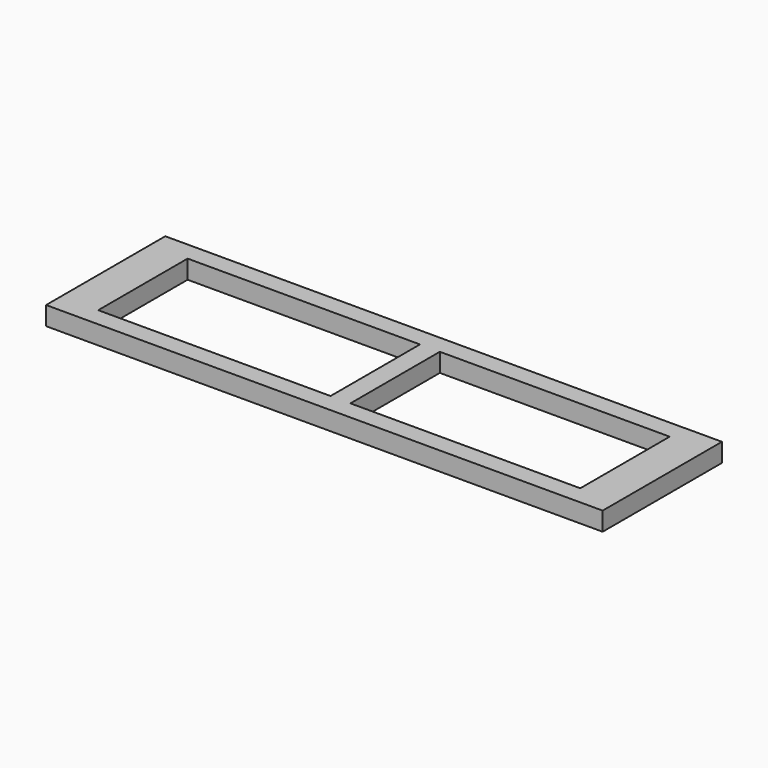
from build123d import *

# Parameters (mm, degrees)
F0_W     = 10
F0_H     = 5
F0_W_2   = 62.3825581372
F0_H_2   = 30
F0_W_3   = 5.3366641514
F0_W_4   = 61.7137295194
F0_H_3   = 0.0304440409
F0_H_4   = 4.9695559591
F1_DEPTH = 5


with BuildPart() as f1:
    # F0 (on Top) → F1 (new body)
    with BuildSketch(Plane.XY):
        with Locations((-70.1701965928, 17.6873061806)):
            Rectangle(F0_W, F0_H)
        with Locations((-33.9789175242, 17.6873061806)):
            Rectangle(F0_W_2, F0_H)
        with Locations((-70.1701965928, 0.1873061806)):
            Rectangle(F0_W, F0_H_2)
        with Locations((-0.1193063799, 17.6873061806)):
            Rectangle(F0_W_3, F0_H)
        with Locations((-70.1701965928, -17.3126938194)):
            Rectangle(F0_W, F0_H)
        with Locations((-33.9789175242, -17.3126938194)):
            Rectangle(F0_W_2, F0_H)
        with Locations((33.4058904555, 17.6873061806)):
            Rectangle(F0_W_4, F0_H)
        with Locations((-0.1193063799, -17.3126938194)):
            Rectangle(F0_W_3, F0_H)
        with Locations((69.2627552152, 17.6873061806)):
            Rectangle(F0_W, F0_H)
        with Locations((69.2627552152, 20.202528201)):
            Rectangle(F0_W, F0_H_3)
        Polygon((64.2627552152, -14.8126938194), (2.5490256958, -14.8126938194), (2.5490256958, -19.8126938194), (74.2627552152, -19.8126938194), (74.2627552152, -19.7822497785), (64.2627552152, -19.7822497785), align=None)
        with Locations((69.2627552152, 0.1873061806)):
            Rectangle(F0_W, F0_H_2)
        with Locations((69.2627552152, -17.297471799)):
            Rectangle(F0_W, F0_H_4)
        with Locations((-0.1193063799, 0.1873061806)):
            Rectangle(F0_W_3, F0_H_2)
    extrude(amount=F1_DEPTH)


solid = f1.part
